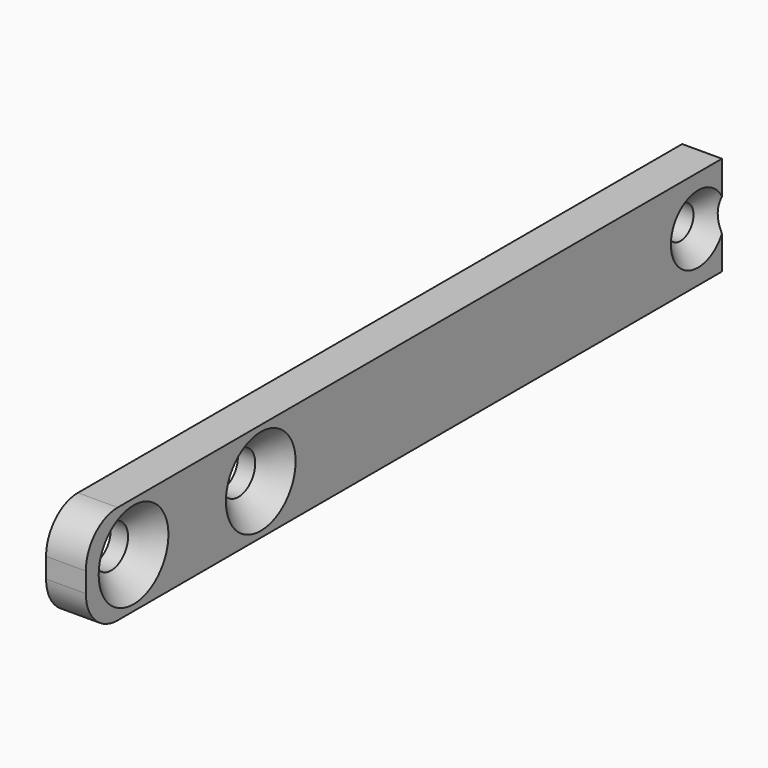
from build123d import *

# Parameters (mm, degrees)
F0_W           = 127
F0_H           = 15.875
F1_DEPTH       = 6.35
F3_D           = 6.7564
F3_CSINK_D     = 13.9192
F3_CSINK_ANGLE = 90
F4_D           = 5.2324
F4_CSINK_D     = 10.8712
F4_CSINK_ANGLE = 90
F5_R           = 6.35


with BuildPart() as f1:
    # F0 (on Right) → F1 (new body)
    with BuildSketch(Plane.YZ):
        with Locations((63.5, 7.9375)):
            Rectangle(F0_W, F0_H)
    extrude(amount=F1_DEPTH)

    # F3 (through all)
    with Locations(Plane.YZ.offset(6.35)):
        with Locations((9.525, 7.9375), (34.925, 7.9375)):
            CounterSinkHole(F3_D / 2, F3_CSINK_D / 2, counter_sink_angle=F3_CSINK_ANGLE)

    # F4 (through all)
    with Locations(Plane.YZ.offset(6.35)):
        with Locations((122.2375, 7.9375)):
            CounterSinkHole(F4_D / 2, F4_CSINK_D / 2, counter_sink_angle=F4_CSINK_ANGLE)

    # F5
    f5_edges = [f1.edges().sort_by_distance(p)[0] for p in [
        (3.175, 0, 15.875),
        (3.175, 0, 0),
    ]]
    fillet(f5_edges, radius=F5_R)


solid = f1.part
